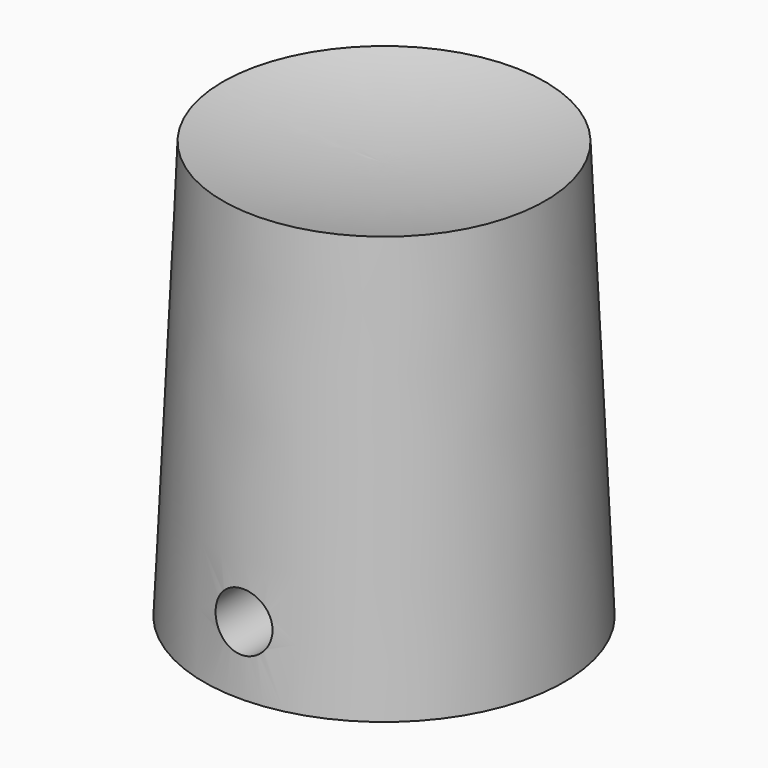
from build123d import *

# Parameters (mm, degrees)
F2_R     = 1.5
F3_DEPTH = 9.501


with BuildPart() as f1:
    # F0 (on Front) → F1 (revolve)
    with BuildSketch(Plane.XZ):
        with BuildLine():
            Line((-9.5, 0), (-3, 0))
            Line((-3, 0), (-3, 19))
            Line((-3, 19), (0, 19))
            Line((0, 19), (0, 21))
            ThreePointArc((0, 21), (-4.279311, 21.250859), (-8.5, 22))
            Line((-8.5, 22), (-9.5, 0))
        make_face()
    revolve(axis=Axis((0, 0, 20), (0, 0, -1)))

    # F2 (on Front) → F3 (cut, through all)
    with BuildSketch(Plane.XZ):
        with Locations((0, 3.5)):
            Circle(F2_R)
    extrude(amount=F3_DEPTH, mode=Mode.SUBTRACT)


solid = f1.part
